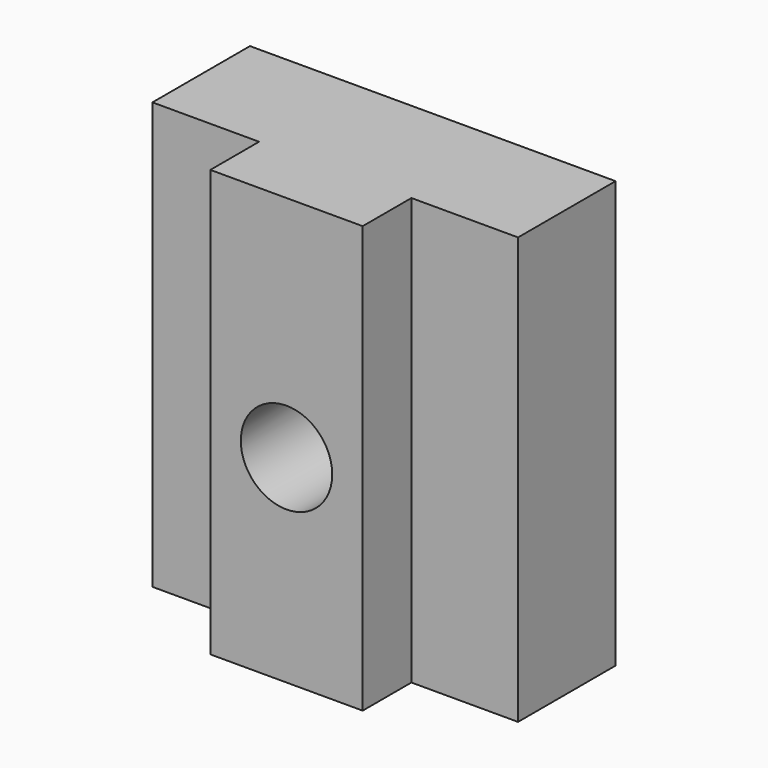
from build123d import *

# Parameters (mm, degrees)
F0_W     = 12
F0_H     = 40
F1_DEPTH = 4
F2_W     = 5
F2_H     = 40
F3_DEPTH = 2
F4_R     = 1.5
F5_DEPTH = 25
F6_R     = 1.5
F7_DEPTH = 2
F8_W     = 4.029665
F8_H     = 26
F8_W_2   = 12
F9_DEPTH = 25


with BuildPart() as f1:
    # F0 (on Front) → F1 (new body)
    with BuildSketch(Plane.XZ):
        Rectangle(F0_W, F0_H)
    extrude(amount=F1_DEPTH)

    # F2 (on face) → F3 (join)
    with BuildSketch(Plane.XZ.offset(4)):
        Rectangle(F2_W, F2_H)
    extrude(amount=F3_DEPTH)

    # F4 (on face) → F5 (cut)
    with BuildSketch(Plane.XZ.offset(6)):
        with Locations((0, 16.5)):
            Circle(F4_R)
        with Locations((0, -13.5)):
            Circle(F4_R)
    extrude(amount=-F5_DEPTH, mode=Mode.SUBTRACT)

    # F6 (on face) → F7 (cut)
    with BuildSketch(Plane(origin=(0, 0, 0), x_dir=(-1, 0, 0), z_dir=(0, 1, 0))):
        Polygon((2.75, 14.912287), (2.75, 18.087713), (0, 19.675426), (-2.75, 18.087713), (-2.75, 14.912287), (0, 13.324574), align=None)
        with Locations((0, 16.5)):
            Circle(F6_R, mode=Mode.SUBTRACT)
        Polygon((2.750551, -11.913241), (0.001102, -10.324574), (-2.749449, -11.911332), (-2.750551, -15.086759), (-0.001102, -16.675426), (2.749449, -15.088668), align=None)
        with Locations((0, -13.5)):
            Circle(F6_R, mode=Mode.SUBTRACT)
    extrude(amount=-F7_DEPTH, mode=Mode.SUBTRACT)

    # F8 (on face) → F9 (cut)
    with BuildSketch(Plane(origin=(0, 0, 0), x_dir=(-1, 0, 0), z_dir=(0, 1, 0))):
        with Locations((8.014833, 7)):
            Rectangle(F8_W, F8_H)
        with Locations((0, 7)):
            Rectangle(F8_W_2, F8_H)
        Polygon((2.75, 18.087713), (2.75, 14.912287), (0, 13.324574), (-2.75, 14.912287), (-2.75, 18.087713), (0, 19.675426), align=None, mode=Mode.SUBTRACT)
        Polygon((0, 13.324574), (2.75, 14.912287), (2.75, 18.087713), (0, 19.675426), (-2.75, 18.087713), (-2.75, 14.912287), align=None)
    extrude(amount=-F9_DEPTH, mode=Mode.SUBTRACT)


solid = f1.part
